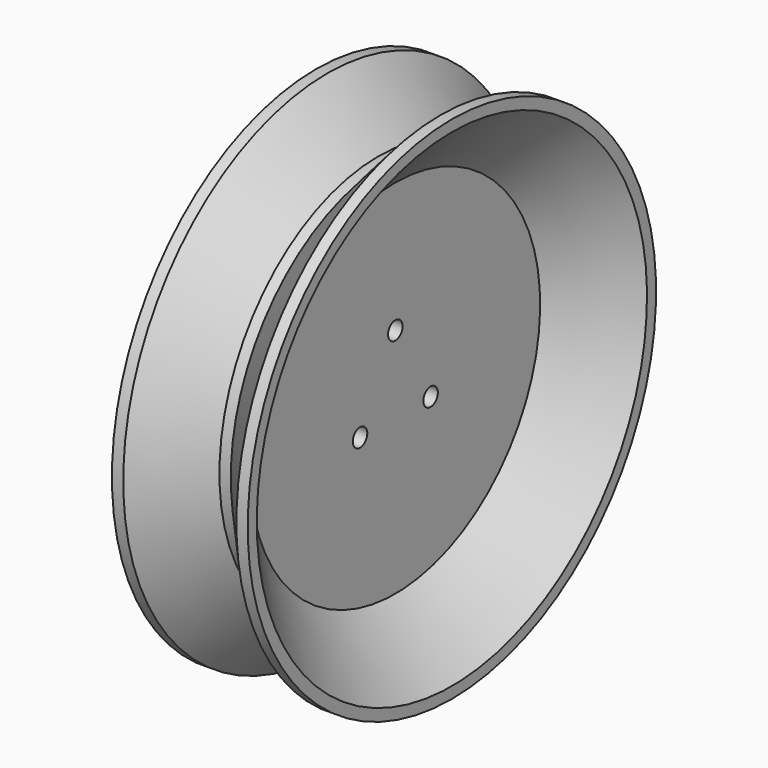
from build123d import *

# Parameters (mm, degrees)
F2_R     = 1.6
F3_DEPTH = 14.001


with BuildPart() as f1:
    # F0 (on Front) → F1 (revolve)
    with BuildSketch(Plane.XZ):
        Polygon((-10, 45.111111), (-12, 45.111111), (-12, 43.111111), (-2, 32), (-2, 0), (2, 0), (2, 32), (12, 43.111111), (12, 45.111111), (10, 45.111111), (1, 35.111111), (-1, 35.111111), align=None)
    revolve(axis=Axis((0, 0, 0), (1, 0, 0)))

    # F2 (on face) → F3 (cut, through all)
    with BuildSketch(Plane(origin=(-2, 0, 0), x_dir=(0, -1, 0), z_dir=(-1, 0, 0))):
        with Locations((-7.794229, -4.5)):
            Circle(F2_R)
        with Locations((7.794229, -4.5)):
            Circle(F2_R)
        with Locations((0, 9)):
            Circle(F2_R)
    extrude(amount=-F3_DEPTH, mode=Mode.SUBTRACT)


solid = f1.part
